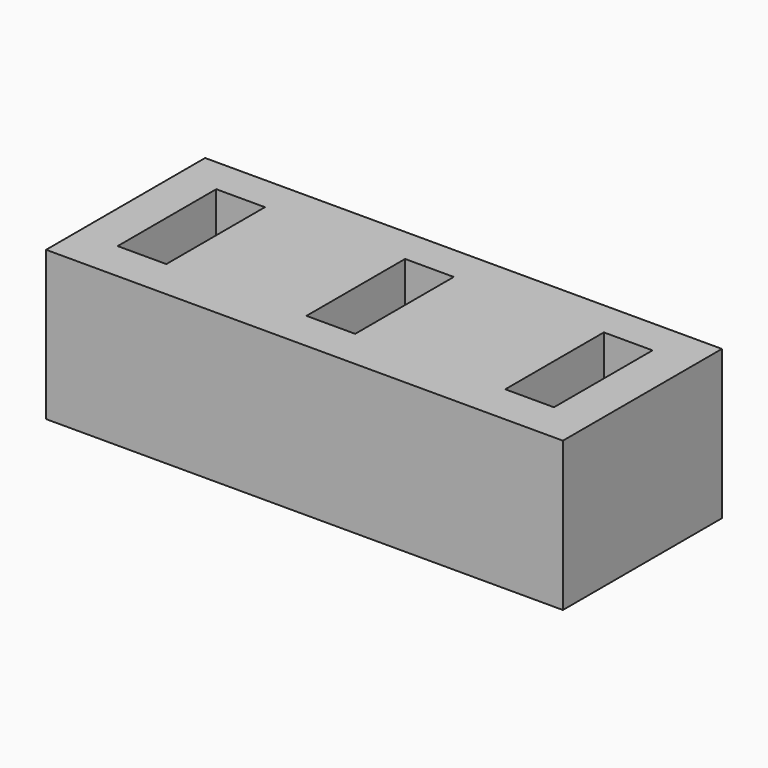
from build123d import *

# Parameters (mm, degrees)
BOX003_W     = 4.9
BOX003_H     = 12.4
BOX003_DEPTH = 25
BOX002_W     = 4.9
BOX002_H     = 12.4
BOX002_DEPTH = 25
BOX001_W     = 4.9
BOX001_H     = 12.4
BOX001_DEPTH = 25
BOX_W        = 52
BOX_H        = 20
BOX_DEPTH    = 15


with BuildPart() as box003:
    # Box003 → Box003 (new body)
    with BuildSketch(Plane(origin=(23, 4, 2), x_dir=(1, 0, 0), z_dir=(0, 0, 1))):
        with Locations((2.45, 6.2)):
            Rectangle(BOX003_W, BOX003_H)
    extrude(amount=BOX003_DEPTH)


with BuildPart() as box002:
    # Box002 → Box002 (new body)
    with BuildSketch(Plane(origin=(43, 4, 2), x_dir=(1, 0, 0), z_dir=(0, 0, 1))):
        with Locations((2.45, 6.2)):
            Rectangle(BOX002_W, BOX002_H)
    extrude(amount=BOX002_DEPTH)


with BuildPart() as box001:
    # Box001 → Box001 (new body)
    with BuildSketch(Plane(origin=(4, 4, 2), x_dir=(1, 0, 0), z_dir=(0, 0, 1))):
        with Locations((2.45, 6.2)):
            Rectangle(BOX001_W, BOX001_H)
    extrude(amount=BOX001_DEPTH)


with BuildPart() as cut002:
    # Box → Box (new body)
    with BuildSketch(Plane.XY):
        with Locations((26, 10)):
            Rectangle(BOX_W, BOX_H)
    extrude(amount=BOX_DEPTH)

    # Cut: cut Box001
    add(box001.part, mode=Mode.SUBTRACT)

    # Cut001: cut Box002
    add(box002.part, mode=Mode.SUBTRACT)

    # Cut002: cut Box003
    add(box003.part, mode=Mode.SUBTRACT)


solid = cut002.part
